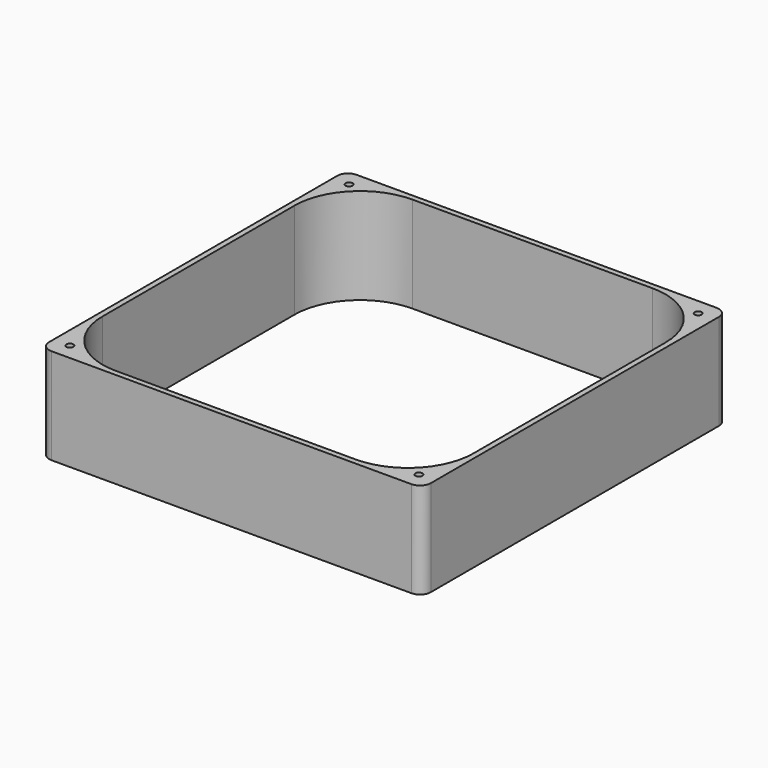
from build123d import *

# Parameters (mm, degrees)
SKETCH_W  = 175
SKETCH_H  = 175
SKETCH_R  = 1.6
PAD_DEPTH = 44
FILLET_R  = 5


with BuildPart() as part:
    # Sketch → Pad (new body)
    with BuildSketch(Plane.XY):
        Rectangle(SKETCH_W, SKETCH_H)
        with Locations((-80, 80)):
            Circle(SKETCH_R, mode=Mode.SUBTRACT)
        with Locations((80, 80)):
            Circle(SKETCH_R, mode=Mode.SUBTRACT)
        with Locations((80, -80)):
            Circle(SKETCH_R, mode=Mode.SUBTRACT)
        with Locations((-80, -80)):
            Circle(SKETCH_R, mode=Mode.SUBTRACT)
        with BuildLine():
            Line((-85, 55), (-85, -55))
            ThreePointArc((-85, -55), (-76.213203, -76.213203), (-55, -85))
            Line((-55, -85), (55, -85))
            ThreePointArc((55, -85), (76.213203, -76.213203), (85, -55))
            Line((85, -55), (85, 55))
            ThreePointArc((85, 55), (76.213203, 76.213203), (55, 85))
            Line((55, 85), (-55, 85))
            ThreePointArc((-55, 85), (-76.213203, 76.213203), (-85, 55))
        make_face(mode=Mode.SUBTRACT)
    extrude(amount=PAD_DEPTH)

    # Fillet
    fillet_edges = [part.edges().sort_by_distance(p)[0] for p in [
        (87.5, 87.5, 22),
        (87.5, -87.5, 22),
        (-87.5, -87.5, 22),
        (-87.5, 87.5, 22),
    ]]
    fillet(fillet_edges, radius=FILLET_R)


solid = part.part
